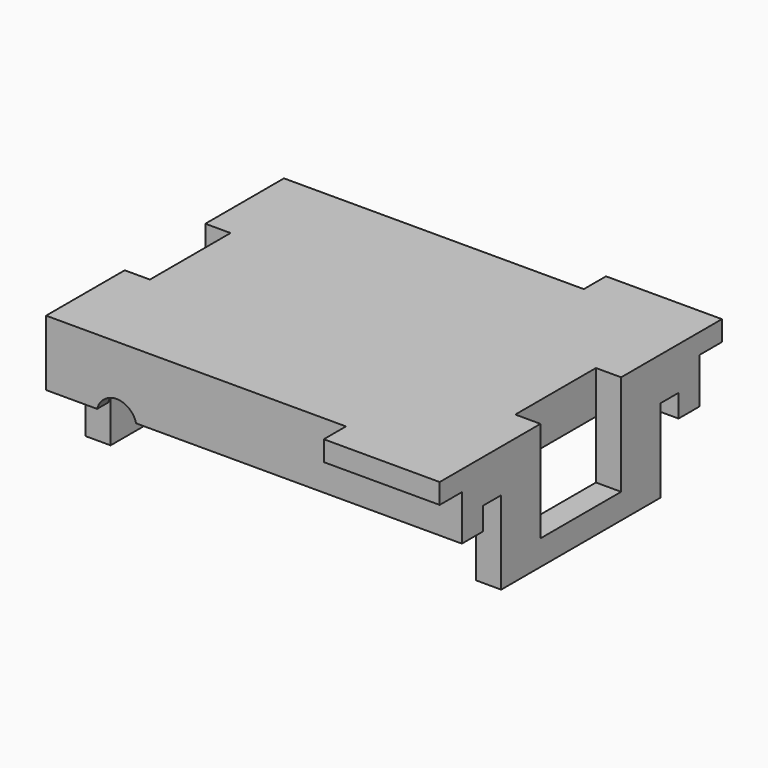
from build123d import *

# Parameters (mm, degrees)
CYLINDER_R     = 0.8
CYLINDER_DEPTH = 20
BOX010_W       = 16.5
BOX010_H       = 0.9
BOX010_DEPTH   = 0.9
BOX011_W       = 16.5
BOX011_H       = 0.9
BOX011_DEPTH   = 0.9
BOX008_W       = 16.5
BOX008_H       = 2
BOX008_DEPTH   = 2.4
BOX009_W       = 16.5
BOX009_H       = 2
BOX009_DEPTH   = 2.4
BOX007_W       = 14.5
BOX007_H       = 10.7
BOX007_DEPTH   = 3.3
BOX004_W       = 11.9
BOX004_H       = 1.1
BOX004_DEPTH   = 5
BOX003_W       = 11.9
BOX003_H       = 1.1
BOX003_DEPTH   = 5
BOX005_W       = 4.6
BOX005_H       = 1.1
BOX005_DEPTH   = 4.2
BOX006_W       = 4.6
BOX006_H       = 1.1
BOX006_DEPTH   = 4.2
BOX002_W       = 1
BOX002_H       = 4
BOX002_DEPTH   = 4
BOX001_W       = 1
BOX001_H       = 4
BOX001_DEPTH   = 4
BOX_W          = 16.5
BOX_H          = 14
BOX_DEPTH      = 5


with BuildPart() as cylinder:
    # Cylinder → Cylinder (new body)
    with BuildSketch(Plane(origin=(2.8, 10, 2.2), x_dir=(1, 0, 0), z_dir=(0, -1, 0))):
        Circle(CYLINDER_R)
    extrude(amount=CYLINDER_DEPTH)


with BuildPart() as cube010:
    # Box010 → Box010 (new body)
    with BuildSketch(Plane(origin=(0, 3.95, 2.4), x_dir=(1, 0, 0), z_dir=(0, 0, 1))):
        with Locations((8.25, 0.45)):
            Rectangle(BOX010_W, BOX010_H)
    extrude(amount=BOX010_DEPTH)


with BuildPart() as compound002:
    # Box011 → Box011 (new body)
    with BuildSketch(Plane(origin=(0, -4.85, 2.4), x_dir=(1, 0, 0), z_dir=(0, 0, 1))):
        with Locations((8.25, 0.45)):
            Rectangle(BOX011_W, BOX011_H)
    extrude(amount=BOX011_DEPTH)

    # Compound002: union Cube010
    add(cube010.part)


with BuildPart() as cube008:
    # Box008 → Box008 (new body)
    with BuildSketch(Plane(origin=(0, -5.95, 0), x_dir=(1, 0, 0), z_dir=(0, 0, 1))):
        with Locations((8.25, 1)):
            Rectangle(BOX008_W, BOX008_H)
    extrude(amount=BOX008_DEPTH)


with BuildPart() as compound001:
    # Box009 → Box009 (new body)
    with BuildSketch(Plane(origin=(0, 3.95, 0), x_dir=(1, 0, 0), z_dir=(0, 0, 1))):
        with Locations((8.25, 1)):
            Rectangle(BOX009_W, BOX009_H)
    extrude(amount=BOX009_DEPTH)

    # Compound001: union Cube008
    add(cube008.part)


with BuildPart() as cube007:
    # Box007 → Box007 (new body)
    with BuildSketch(Plane(origin=(1, -5.35, 0), x_dir=(1, 0, 0), z_dir=(0, 0, 1))):
        with Locations((7.25, 5.35)):
            Rectangle(BOX007_W, BOX007_H)
    extrude(amount=BOX007_DEPTH)


with BuildPart() as cube004:
    # Box004 → Box004 (new body)
    with BuildSketch(Plane(origin=(0, 5.9, 0), x_dir=(1, 0, 0), z_dir=(0, 0, 1))):
        with Locations((5.95, 0.55)):
            Rectangle(BOX004_W, BOX004_H)
    extrude(amount=BOX004_DEPTH)


with BuildPart() as cube003:
    # Box003 → Box003 (new body)
    with BuildSketch(Plane(origin=(0, -7, 0), x_dir=(1, 0, 0), z_dir=(0, 0, 1))):
        with Locations((5.95, 0.55)):
            Rectangle(BOX003_W, BOX003_H)
    extrude(amount=BOX003_DEPTH)


with BuildPart() as cube005:
    # Box005 → Box005 (new body)
    with BuildSketch(Plane(origin=(11.9, -7, 0), x_dir=(1, 0, 0), z_dir=(0, 0, 1))):
        with Locations((2.3, 0.55)):
            Rectangle(BOX005_W, BOX005_H)
    extrude(amount=BOX005_DEPTH)


with BuildPart() as cube006:
    # Box006 → Box006 (new body)
    with BuildSketch(Plane(origin=(11.9, 5.9, 0), x_dir=(1, 0, 0), z_dir=(0, 0, 1))):
        with Locations((2.3, 0.55)):
            Rectangle(BOX006_W, BOX006_H)
    extrude(amount=BOX006_DEPTH)


with BuildPart() as cube002:
    # Box002 → Box002 (new body)
    with BuildSketch(Plane(origin=(0, -2, 1), x_dir=(1, 0, 0), z_dir=(0, 0, 1))):
        with Locations((0.5, 2)):
            Rectangle(BOX002_W, BOX002_H)
    extrude(amount=BOX002_DEPTH)


with BuildPart() as compound:
    # Box001 → Box001 (new body)
    with BuildSketch(Plane(origin=(15.5, -2, 1), x_dir=(1, 0, 0), z_dir=(0, 0, 1))):
        with Locations((0.5, 2)):
            Rectangle(BOX001_W, BOX001_H)
    extrude(amount=BOX001_DEPTH)

    # Compound: union Cube002
    add(cube002.part)


with BuildPart() as cut008:
    # Box → Box (new body)
    with BuildSketch(Plane(origin=(0, -7, 0), x_dir=(1, 0, 0), z_dir=(0, 0, 1))):
        with Locations((8.25, 7)):
            Rectangle(BOX_W, BOX_H)
    extrude(amount=BOX_DEPTH)

    # Cut: cut Compound
    add(compound.part, mode=Mode.SUBTRACT)

    # Cut001: cut Cube006
    add(cube006.part, mode=Mode.SUBTRACT)

    # Cut002: cut Cube005
    add(cube005.part, mode=Mode.SUBTRACT)

    # Cut003: cut Cube003
    add(cube003.part, mode=Mode.SUBTRACT)

    # Cut004: cut Cube004
    add(cube004.part, mode=Mode.SUBTRACT)

    # Cut005: cut Cube007
    add(cube007.part, mode=Mode.SUBTRACT)

    # Cut006: cut Compound001
    add(compound001.part, mode=Mode.SUBTRACT)

    # Cut007: cut Compound002
    add(compound002.part, mode=Mode.SUBTRACT)

    # Cut008: cut Cylinder
    add(cylinder.part, mode=Mode.SUBTRACT)


solid = cut008.part
